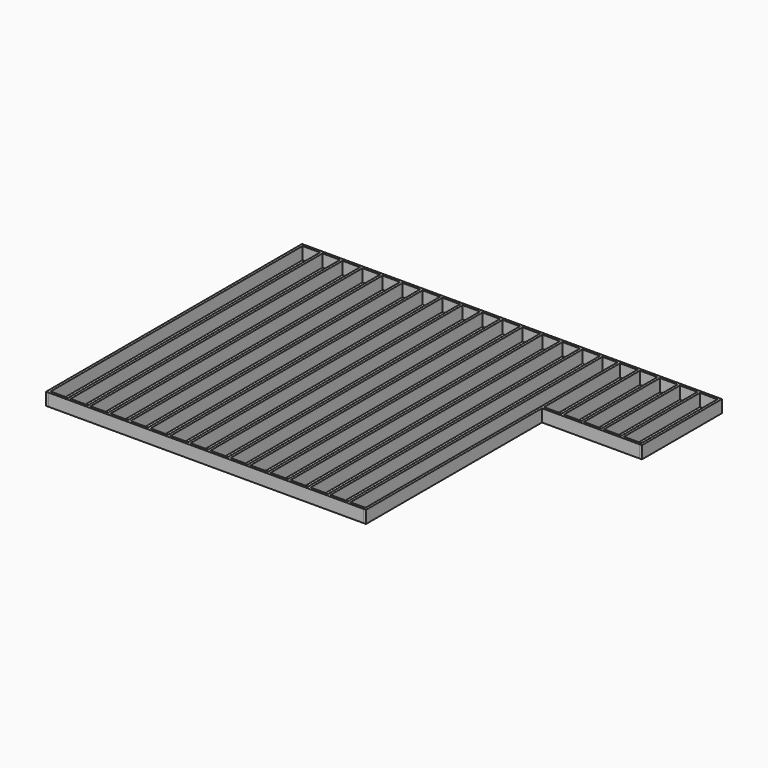
from build123d import *

# Parameters (mm, degrees)
F1_W          = 38.1
F1_H          = 190.5
F2_DEPTH      = 2400.3
F2_DEPTH_BACK = 2400.3
F4_W          = 38.1
F4_H          = 190.5
F5_DEPTH      = 4876.8
F7_W          = 38.1
F7_H          = 190.5
F8_DEPTH      = 1524
F9_W          = 38.1
F9_H          = 190.5
F10_DEPTH     = 1485.9
F12_W         = 38.1
F12_H         = 190.5
F13_DEPTH     = 4800.6
F14_W         = 38.1
F14_H         = 190.5
F15_DEPTH     = 1447.8


with BuildPart() as f2:
    # F1 (on Right) → F2 (new body, two sides)
    with BuildSketch(Plane.YZ) as f2_sk:
        with Locations((2419.35, 95.25)):
            Rectangle(F1_W, F1_H)
    extrude(amount=-F2_DEPTH)
    extrude(f2_sk.sketch, amount=F2_DEPTH_BACK)


with BuildPart() as f3_1:
    # F3: copy of F2
    add(f2.part.moved(Location((0, -4838.7, 0))))


with BuildPart() as f5:
    # F4 (on face) → F5 (new body, through all)
    with BuildSketch(Plane.XZ.offset(2438.4)):
        with Locations((-2419.35, 95.25)):
            Rectangle(F4_W, F4_H)
    extrude(amount=-F5_DEPTH)


with BuildPart() as f6_1:
    # F6: copy of F5
    add(f5.part.moved(Location((4838.7, 0, 0))))


with BuildPart() as f8:
    # F7 (on face) → F8 (new body)
    with BuildSketch(Plane(origin=(0, 2438.4, 0), x_dir=(-1, 0, 0), z_dir=(0, 1, 0))):
        with Locations((-3943.35, 95.25)):
            Rectangle(F7_W, F7_H)
    extrude(amount=-F8_DEPTH)


with BuildPart() as f10:
    # F9 (on face) → F10 (new body, through all)
    with BuildSketch(Plane.YZ.offset(2438.4)):
        with Locations((933.45, 95.25)):
            Rectangle(F9_W, F9_H)
    extrude(amount=F10_DEPTH)


with BuildPart() as f11_1:
    # F11: copy of F10
    add(f10.part.moved(Location((0, 1485.9, 0))))


with BuildPart() as f13:
    # F12 (on face) → F13 (new body, through all)
    with BuildSketch(Plane.XZ.offset(-2400.3)):
        with Locations((-2114.55, 95.25)):
            Rectangle(F12_W, F12_H)
    extrude(amount=F13_DEPTH)


with BuildPart() as f13b:
    # F12 (on face) → F13, piece 2 (new body, through all)
    with BuildSketch(Plane.XZ.offset(-2400.3)):
        with Locations((-1809.75, 95.25)):
            Rectangle(F12_W, F12_H)
    extrude(amount=F13_DEPTH)


with BuildPart() as f13c:
    # F12 (on face) → F13, piece 3 (new body, through all)
    with BuildSketch(Plane.XZ.offset(-2400.3)):
        with Locations((-1504.95, 95.25)):
            Rectangle(F12_W, F12_H)
    extrude(amount=F13_DEPTH)


with BuildPart() as f13d:
    # F12 (on face) → F13, piece 4 (new body, through all)
    with BuildSketch(Plane.XZ.offset(-2400.3)):
        with Locations((-1200.15, 95.25)):
            Rectangle(F12_W, F12_H)
    extrude(amount=F13_DEPTH)


with BuildPart() as f13e:
    # F12 (on face) → F13, piece 5 (new body, through all)
    with BuildSketch(Plane.XZ.offset(-2400.3)):
        with Locations((-895.35, 95.25)):
            Rectangle(F12_W, F12_H)
    extrude(amount=F13_DEPTH)


with BuildPart() as f13f:
    # F12 (on face) → F13, piece 6 (new body, through all)
    with BuildSketch(Plane.XZ.offset(-2400.3)):
        with Locations((-590.55, 95.25)):
            Rectangle(F12_W, F12_H)
    extrude(amount=F13_DEPTH)


with BuildPart() as f13g:
    # F12 (on face) → F13, piece 7 (new body, through all)
    with BuildSketch(Plane.XZ.offset(-2400.3)):
        with Locations((-285.75, 95.25)):
            Rectangle(F12_W, F12_H)
    extrude(amount=F13_DEPTH)


with BuildPart() as f13h:
    # F12 (on face) → F13, piece 8 (new body, through all)
    with BuildSketch(Plane.XZ.offset(-2400.3)):
        with Locations((19.05, 95.25)):
            Rectangle(F12_W, F12_H)
    extrude(amount=F13_DEPTH)


with BuildPart() as f13i:
    # F12 (on face) → F13, piece 9 (new body, through all)
    with BuildSketch(Plane.XZ.offset(-2400.3)):
        with Locations((323.85, 95.25)):
            Rectangle(F12_W, F12_H)
    extrude(amount=F13_DEPTH)


with BuildPart() as f13j:
    # F12 (on face) → F13, piece 10 (new body, through all)
    with BuildSketch(Plane.XZ.offset(-2400.3)):
        with Locations((628.65, 95.25)):
            Rectangle(F12_W, F12_H)
    extrude(amount=F13_DEPTH)


with BuildPart() as f13k:
    # F12 (on face) → F13, piece 11 (new body, through all)
    with BuildSketch(Plane.XZ.offset(-2400.3)):
        with Locations((933.45, 95.25)):
            Rectangle(F12_W, F12_H)
    extrude(amount=F13_DEPTH)


with BuildPart() as f13l:
    # F12 (on face) → F13, piece 12 (new body, through all)
    with BuildSketch(Plane.XZ.offset(-2400.3)):
        with Locations((1238.25, 95.25)):
            Rectangle(F12_W, F12_H)
    extrude(amount=F13_DEPTH)


with BuildPart() as f13m:
    # F12 (on face) → F13, piece 13 (new body, through all)
    with BuildSketch(Plane.XZ.offset(-2400.3)):
        with Locations((1543.05, 95.25)):
            Rectangle(F12_W, F12_H)
    extrude(amount=F13_DEPTH)


with BuildPart() as f13n:
    # F12 (on face) → F13, piece 14 (new body, through all)
    with BuildSketch(Plane.XZ.offset(-2400.3)):
        with Locations((1847.85, 95.25)):
            Rectangle(F12_W, F12_H)
    extrude(amount=F13_DEPTH)


with BuildPart() as f13o:
    # F12 (on face) → F13, piece 15 (new body, through all)
    with BuildSketch(Plane.XZ.offset(-2400.3)):
        with Locations((2152.65, 95.25)):
            Rectangle(F12_W, F12_H)
    extrude(amount=F13_DEPTH)


with BuildPart() as f15:
    # F14 (on face) → F15 (new body, through all)
    with BuildSketch(Plane.XZ.offset(-2400.3)):
        with Locations((2724.15, 95.25)):
            Rectangle(F14_W, F14_H)
    extrude(amount=F15_DEPTH)


with BuildPart() as f15b:
    # F14 (on face) → F15, piece 2 (new body, through all)
    with BuildSketch(Plane.XZ.offset(-2400.3)):
        with Locations((3028.95, 95.25)):
            Rectangle(F14_W, F14_H)
    extrude(amount=F15_DEPTH)


with BuildPart() as f15c:
    # F14 (on face) → F15, piece 3 (new body, through all)
    with BuildSketch(Plane.XZ.offset(-2400.3)):
        with Locations((3333.75, 95.25)):
            Rectangle(F14_W, F14_H)
    extrude(amount=F15_DEPTH)


with BuildPart() as f15d:
    # F14 (on face) → F15, piece 4 (new body, through all)
    with BuildSketch(Plane.XZ.offset(-2400.3)):
        with Locations((3638.55, 95.25)):
            Rectangle(F14_W, F14_H)
    extrude(amount=F15_DEPTH)


solid = Compound([f2.part, f3_1.part, f5.part, f6_1.part, f8.part, f10.part, f11_1.part, f13.part, f13b.part, f13c.part, f13d.part, f13e.part, f13f.part, f13g.part, f13h.part, f13i.part, f13j.part, f13k.part, f13l.part, f13m.part, f13n.part, f13o.part, f15.part, f15b.part, f15c.part, f15d.part])
